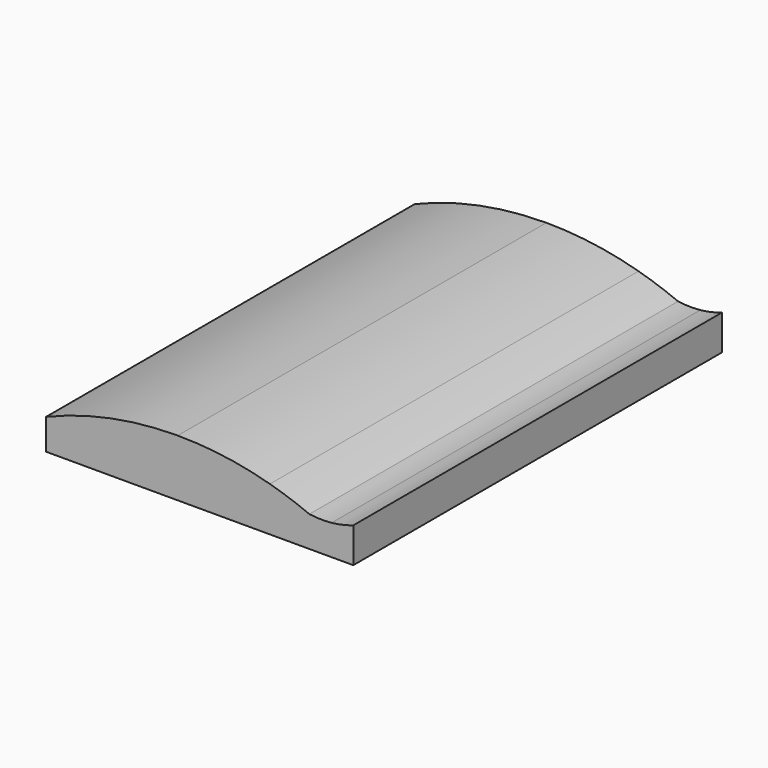
from build123d import *

# Parameters (mm, degrees)
F1_DEPTH = 266.7
F2_DEPTH = 266.7
F4_DEPTH = 7.62


with BuildPart() as f1:
    # F0 (on Front) → F1 (new body)
    with BuildSketch(Plane.XZ):
        with BuildLine():
            ThreePointArc((35.7132010039, 17.5181751166), (29.2787431914, 17.2629117417), (22.8600185156, 17.78))
            ThreePointArc((22.8600185156, 17.78), (11.5511007159, 22.0915645826), (1.85156e-05, 25.7045565494))
            Line((1.85156e-05, 25.7045565494), (1.85156e-05, 0))
            Line((1.85156e-05, 0), (35.7132010039, 0))
            Line((35.7132010039, 0), (35.7132010039, 17.5181751166))
        make_face()
        with BuildLine():
            Line((1.85156e-05, 0), (1.85156e-05, 25.7045565494))
            ThreePointArc((1.85156e-05, 25.7045565494), (-26.4203264305, 31.1826191281), (-53.3399814844, 33.02))
            Line((-53.3399814844, 33.02), (-53.3399814844, 0))
            Line((-53.3399814844, 0), (1.85156e-05, 0))
        make_face()
        with BuildLine():
            Line((-53.3399814844, 0), (-53.3399814844, 33.02))
            ThreePointArc((-53.3399814844, 33.02), (-92.194510178, 29.1726434679), (-129.5399814844, 17.78))
            Line((-129.5399814844, 17.78), (-129.5399814844, 0))
            Line((-129.5399814844, 0), (-53.3399814844, 0))
        make_face()
        with BuildLine():
            ThreePointArc((35.7132010039, 17.5181751166), (29.2787431914, 17.2629117417), (22.8600185156, 17.78))
            ThreePointArc((22.8600185156, 17.78), (11.5511007159, 22.0915645826), (1.85156e-05, 25.7045565494))
            Line((1.85156e-05, 25.7045565494), (1.85156e-05, 0))
            Line((1.85156e-05, 0), (35.7132010039, 0))
            Line((35.7132010039, 0), (35.7132010039, 17.5181751166))
        make_face()
        with BuildLine():
            ThreePointArc((48.2600185156, 20.32), (42.0707910132, 18.5421165239), (35.7132010039, 17.5181751166))
            Line((35.7132010039, 17.5181751166), (35.7132010039, 0))
            Line((35.7132010039, 0), (48.2600185156, 0))
            Line((48.2600185156, 0), (48.2600185156, 20.32))
        make_face()
        with BuildLine():
            ThreePointArc((35.7132010039, 17.5181751166), (29.2787431914, 17.2629117417), (22.8600185156, 17.78))
            ThreePointArc((22.8600185156, 17.78), (11.5511007159, 22.0915645826), (1.85156e-05, 25.7045565494))
            Line((1.85156e-05, 25.7045565494), (1.85156e-05, 0))
            Line((1.85156e-05, 0), (35.7132010039, 0))
            Line((35.7132010039, 0), (35.7132010039, 17.5181751166))
        make_face()
    extrude(amount=F1_DEPTH)

    # F0 (on Front) → F2 (join)
    with BuildSketch(Plane.XZ):
        with BuildLine():
            ThreePointArc((35.7132010039, 17.5181751166), (29.2787431914, 17.2629117417), (22.8600185156, 17.78))
            ThreePointArc((22.8600185156, 17.78), (11.5511007159, 22.0915645826), (1.85156e-05, 25.7045565494))
            Line((1.85156e-05, 25.7045565494), (1.85156e-05, 0))
            Line((1.85156e-05, 0), (35.7132010039, 0))
            Line((35.7132010039, 0), (35.7132010039, 17.5181751166))
        make_face()
        with BuildLine():
            Line((1.85156e-05, 0), (1.85156e-05, 25.7045565494))
            ThreePointArc((1.85156e-05, 25.7045565494), (-26.4203264305, 31.1826191281), (-53.3399814844, 33.02))
            Line((-53.3399814844, 33.02), (-53.3399814844, 0))
            Line((-53.3399814844, 0), (1.85156e-05, 0))
        make_face()
        with BuildLine():
            Line((-53.3399814844, 0), (-53.3399814844, 33.02))
            ThreePointArc((-53.3399814844, 33.02), (-92.194510178, 29.1726434679), (-129.5399814844, 17.78))
            Line((-129.5399814844, 17.78), (-129.5399814844, 0))
            Line((-129.5399814844, 0), (-53.3399814844, 0))
        make_face()
    extrude(amount=F2_DEPTH)


with BuildPart() as f4:
    # F3 (on Top) → F4 (new body)
    with BuildSketch(Plane.XY):
        Polygon((47.7774130199, -133.3460956812), (-29.2099869801, -7.3386e-06), (-106.1973869801, -133.3460956812), (-29.2099869801, -266.7000073386), align=None)
        with BuildLine():
            add(Edge.make_bspline(
                [(-29.2099869801, -165.1000073386), (21.383217109, -165.1000073386), (-3.9133849355, -117.4750073386), (-29.2099869801, -69.8500073386), (-54.5065890246, -117.4750073386), (-79.8031910691, -165.1000073386), (-29.2099869801, -165.1000073386)],
                knots=[0, 0, 0, 2.0943951024, 2.0943951024, 4.1887902048, 4.1887902048, 6.2831853072, 6.2831853072, 6.2831853072], degree=2, weights=[1, 0.5, 1, 0.5, 1, 0.5, 1]))
        make_face(mode=Mode.SUBTRACT)
    extrude(amount=F4_DEPTH)


solid = Compound([f1.part, f4.part])
